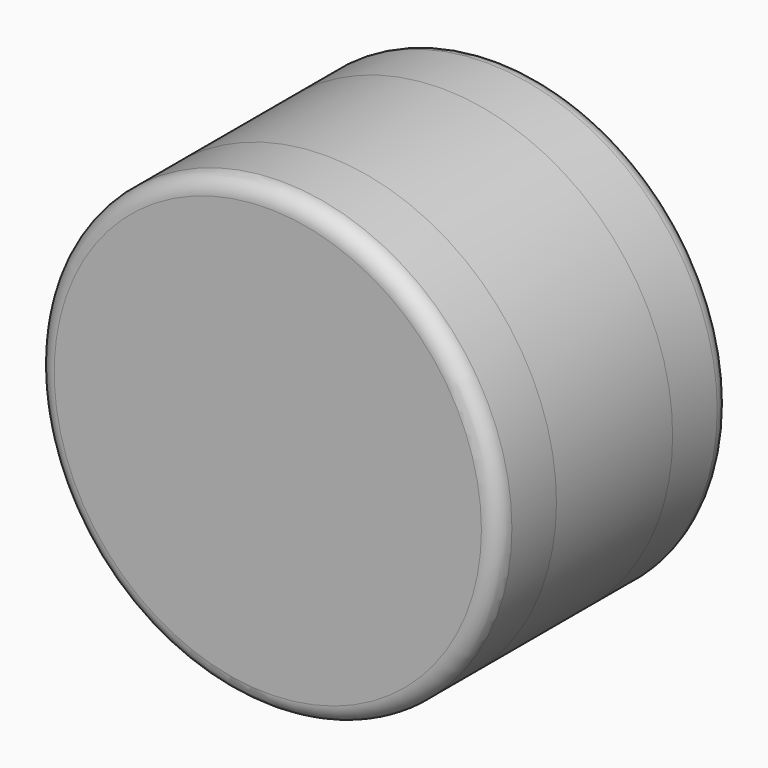
from build123d import *

# Parameters (mm, degrees)
F0_R     = 4.7625
F1_DEPTH = 1.5
F2_R     = 4.7625
F3_DEPTH = 1.5
F4_R     = 0.35


with BuildPart() as f1:
    # F0 (on Front) → F1 (new body, symmetric)
    with BuildSketch(Plane.XZ):
        Circle(F0_R)
    extrude(amount=F1_DEPTH, both=True)

    # F2 (on face) → F3 (join)
    with BuildSketch(Plane.XZ.offset(1.5)):
        Circle(F2_R)
    extrude(amount=F3_DEPTH)

    # F4
    f4_edges = [f1.edges().sort_by_distance(p)[0] for p in [
        (-4.7625, -3, 0),
    ]]
    fillet(f4_edges, radius=F4_R)

    # F5: F1 across plane


with BuildPart() as f1_1:
    add(f1.part)
    add(f1.part.mirror(Plane.XZ))


solid = f1_1.part
